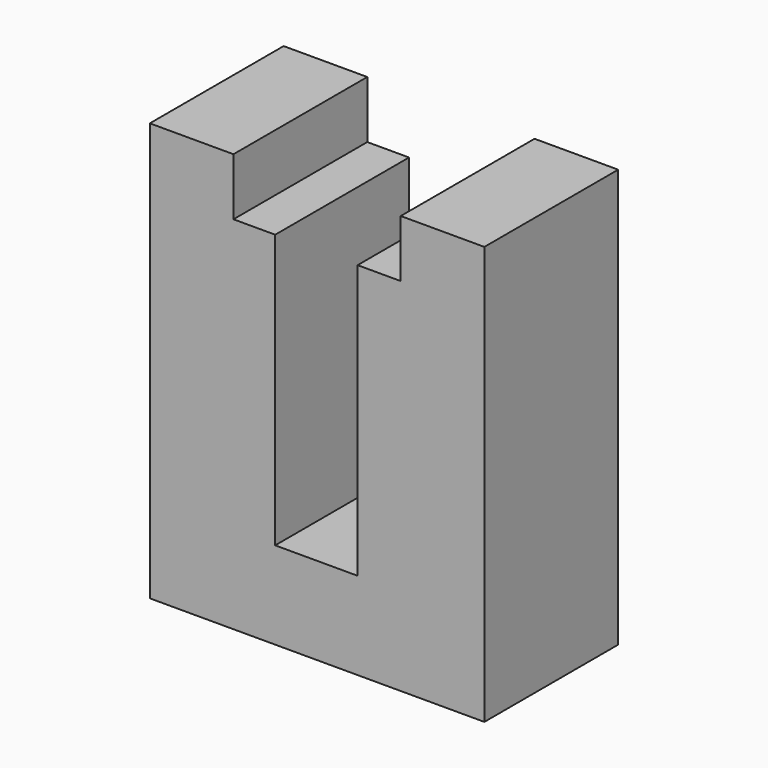
from build123d import *

# Parameters (mm, degrees)
F1_DEPTH = 50.8
F3_DEPTH = 508


with BuildPart() as f1:
    # F0 (on Front) → F1 (new body)
    with BuildSketch(Plane.XZ):
        Polygon((0, 127), (0, 0), (101.6, 0), (101.6, 127), (76.2, 127), (76.2, 109.6020500779), (63.1024986506, 109.6020500779), (63.1024986506, 90.5520500779), (63.1024986506, 26.5513639897), (38.0738861859, 26.5513639897), (38.0738861859, 90.5520500779), (38.0738861859, 109.6020500779), (25.4, 109.6020500779), (25.4, 127), align=None)
    extrude(amount=F1_DEPTH)

    # F2 (on face) → F3 (cut)
    with BuildSketch(Plane.XY.offset(26.5513639897)):
        with BuildLine():
            Line((63.1024986506, -39.3377331106), (63.1024986506, -9.0668934377))
            ThreePointArc((63.1024986506, -9.0668934377), (50.5881924182, -4.5633521483), (38.0738861859, -9.0668934377))
            Line((38.0738861859, -9.0668934377), (38.0738861859, -39.3377331106))
            ThreePointArc((38.0738861859, -39.3377331106), (50.5881924182, -43.8412744), (63.1024986506, -39.3377331106))
        make_face()
    extrude(amount=F3_DEPTH, mode=Mode.SUBTRACT)


solid = f1.part
